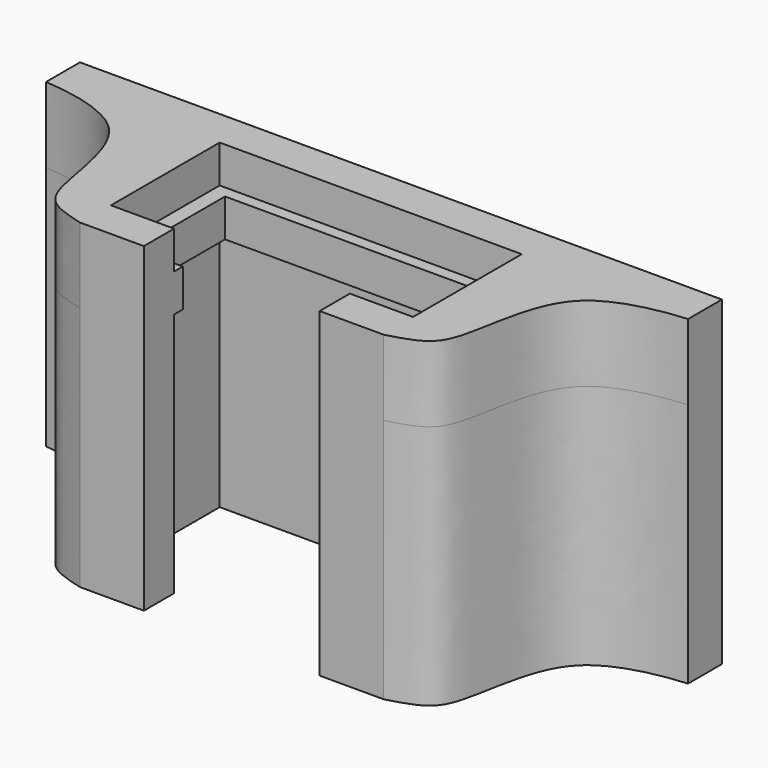
from build123d import *

# Parameters (mm, degrees)
F1_DEPTH      = 2
F2_DEPTH      = 4
F2_DEPTH_BACK = 13


with BuildPart() as f1:
    # F0 (on Top) → F1 (new body)
    with BuildSketch(Plane.XY):
        Polygon((7.2700278834, -3.6), (8, -3.6), (8, 3.6), (-8, 3.6), (-8, -3.6), (-7.2095277719, -3.6), (-4.6549369581, -3.6), (-4.6549369581, -3.020639997), (-7.2095277719, -3.020639997), (-7.2095277719, 2.9658868443), (7.2700278834, 2.9658868443), (7.2700278834, -3.020639997), (4.6549369581, -3.020639997), (4.6549369581, -3.6), align=None)
    extrude(amount=F1_DEPTH)

    # F0 (on Top) → F2 (join, two sides)
    with BuildSketch(Plane.XY) as f2_sk:
        with BuildLine():
            Line((8, 3.6), (8, -3.6))
            Line((8, -3.6), (7.2700278834, -3.6))
            Line((7.2700278834, -3.6), (4.6549369581, -3.6))
            Line((4.6549369581, -3.6), (4.6549369581, -5.6))
            Line((4.6549369581, -5.6), (8.0430833623, -5.6))
            add(Edge.make_bspline(
                [(17, 3.3577582799), (16.4960496733, 3.3138412818), (15.3171334064, 3.2111040461), (12.2268822698, 2.2686653788), (11.1432918225, -0.5621284554), (10.7879122798, -3.0615930247), (10.2337171383, -5.0066227654), (8.7940404903, -5.3965881524), (8.0430833623, -5.6)],
                knots=[0, 0, 0, 0, 0.1417777064, 0.3316676972, 0.5171721131, 0.6933841431, 0.8400645286, 1, 1, 1, 1], degree=3))
            Line((17, 3.3577582799), (17, 5.6))
            Line((17, 5.6), (10, 5.6))
            Line((10, 5.6), (-10, 5.6))
            Line((-10, 5.6), (-17, 5.6))
            Line((-17, 5.6), (-17, 3.3577582799))
            add(Edge.make_bspline(
                [(-17, 3.3577582799), (-16.4960496733, 3.3138412818), (-15.3171334064, 3.2111040461), (-12.2268822698, 2.2686653788), (-11.1432918225, -0.5621284554), (-10.7879122798, -3.0615930247), (-10.2337171383, -5.0066227654), (-8.7940404903, -5.3965881524), (-8.0430833623, -5.6)],
                knots=[0, 0, 0, 0, 0.1417777064, 0.3316676972, 0.5171721131, 0.6933841431, 0.8400645286, 1, 1, 1, 1], degree=3))
            Line((-8.0430833623, -5.6), (-4.6549369581, -5.6))
            Line((-4.6549369581, -5.6), (-4.6549369581, -3.6))
            Line((-4.6549369581, -3.6), (-7.2095277719, -3.6))
            Line((-7.2095277719, -3.6), (-8, -3.6))
            Line((-8, -3.6), (-8, 3.6))
            Line((-8, 3.6), (8, 3.6))
        make_face()
    extrude(amount=F2_DEPTH)
    extrude(f2_sk.sketch, amount=-F2_DEPTH_BACK)


solid = f1.part
